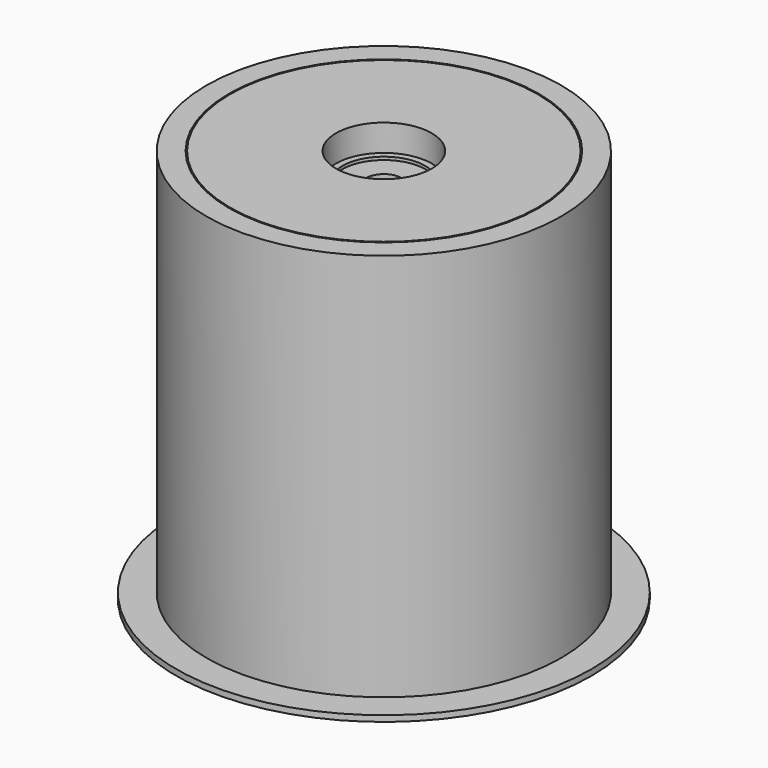
from build123d import *

# Parameters (mm, degrees)
F0_R      = 25.9
F0_R_2    = 3
F1_DEPTH  = 66.5
F2_R      = 35
F2_R_2    = 3
F3_DEPTH  = 1
F4_R      = 8.075
F5_DEPTH  = 5
F6_R      = 8.075
F7_DEPTH  = 5
F8_R      = 8.075
F8_R_2    = 7
F9_DEPTH  = 0.5
F10_R     = 8.075
F10_R_2   = 7
F11_DEPTH = 0.5
F12_R     = 29.9
F12_R_2   = 26.1
F13_DEPTH = 66.5
F14_R     = 28.9
F14_R_2   = 26.1
F15_DEPTH = 66


with BuildPart() as f1:
    # F0 (on Top) → F1 (new body)
    with BuildSketch(Plane.XY):
        Circle(F0_R)
        Circle(F0_R_2, mode=Mode.SUBTRACT)
    extrude(amount=F1_DEPTH)

    # F2 (on face) → F3 (join)
    with BuildSketch(Plane(origin=(0, 0, 0), x_dir=(1, 0, 0), z_dir=(0, 0, -1))):
        Circle(F2_R)
        Circle(F2_R_2, mode=Mode.SUBTRACT)
    extrude(amount=-F3_DEPTH)

    # F4 (on face) → F5 (cut)
    with BuildSketch(Plane(origin=(0, 0, 0), x_dir=(1, 0, 0), z_dir=(0, 0, -1))):
        Circle(F4_R)
    extrude(amount=-F5_DEPTH, mode=Mode.SUBTRACT)

    # F6 (on face) → F7 (cut)
    with BuildSketch(Plane.XY.offset(66.5)):
        Circle(F6_R)
    extrude(amount=-F7_DEPTH, mode=Mode.SUBTRACT)

    # F8 (on face) → F9 (join)
    with BuildSketch(Plane.XY.offset(61.5)):
        Circle(F8_R)
        Circle(F8_R_2, mode=Mode.SUBTRACT)
    extrude(amount=F9_DEPTH)

    # F10 (on face) → F11 (join)
    with BuildSketch(Plane(origin=(0, 0, 5), x_dir=(1, 0, 0), z_dir=(0, 0, -1))):
        Circle(F10_R)
        Circle(F10_R_2, mode=Mode.SUBTRACT)
    extrude(amount=F11_DEPTH)


with BuildPart() as f13:
    # F12 (on Top) → F13 (new body)
    with BuildSketch(Plane.XY):
        Circle(F12_R)
        Circle(F12_R_2, mode=Mode.SUBTRACT)
    extrude(amount=F13_DEPTH)


with BuildPart() as f15:
    # F14 (on Top) → F15 (new body)
    with BuildSketch(Plane.XY):
        Circle(F14_R)
        Circle(F14_R_2, mode=Mode.SUBTRACT)
    extrude(amount=F15_DEPTH)


solid = Compound([f1.part, f13.part, f15.part])
